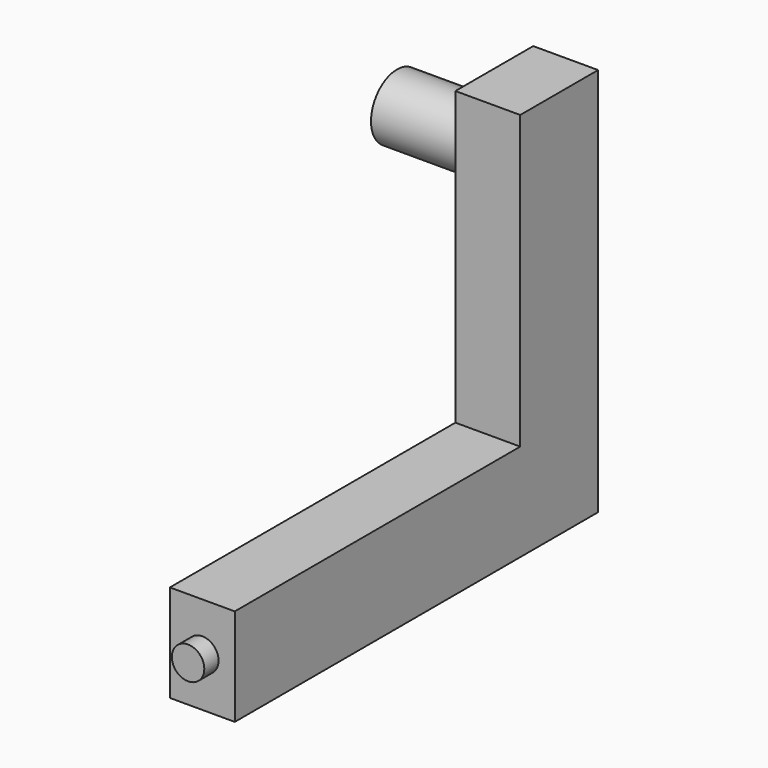
from build123d import *

# Parameters (mm, degrees)
F0_W     = 4
F0_H     = 18
F1_DEPTH = 6
F0_H_2   = 6
F2_DEPTH = 28
F3_R     = 1
F4_DEPTH = 1.1
F5_R     = 2
F6_DEPTH = 6


with BuildPart() as f1:
    # F0 (on Front) → F1 (new body)
    with BuildSketch(Plane.XZ):
        with Locations((0, 12.794577)):
            Rectangle(F0_W, F0_H)
    extrude(amount=F1_DEPTH)

    # F0 (on Front) → F2 (join)
    with BuildSketch(Plane.XZ):
        with Locations((0, 0.794577)):
            Rectangle(F0_W, F0_H_2)
    extrude(amount=F2_DEPTH)

    # F3 (on face) → F4 (join)
    with BuildSketch(Plane.XZ.offset(28)):
        with Locations((0, 0.794577)):
            Circle(F3_R)
    extrude(amount=F4_DEPTH)

    # F5 (on face) → F6 (join)
    with BuildSketch(Plane(origin=(-2, 0, 0), x_dir=(0, -1, 0), z_dir=(-1, 0, 0))):
        with Locations((3, 17.794577)):
            Circle(F5_R)
    extrude(amount=F6_DEPTH)


solid = f1.part
